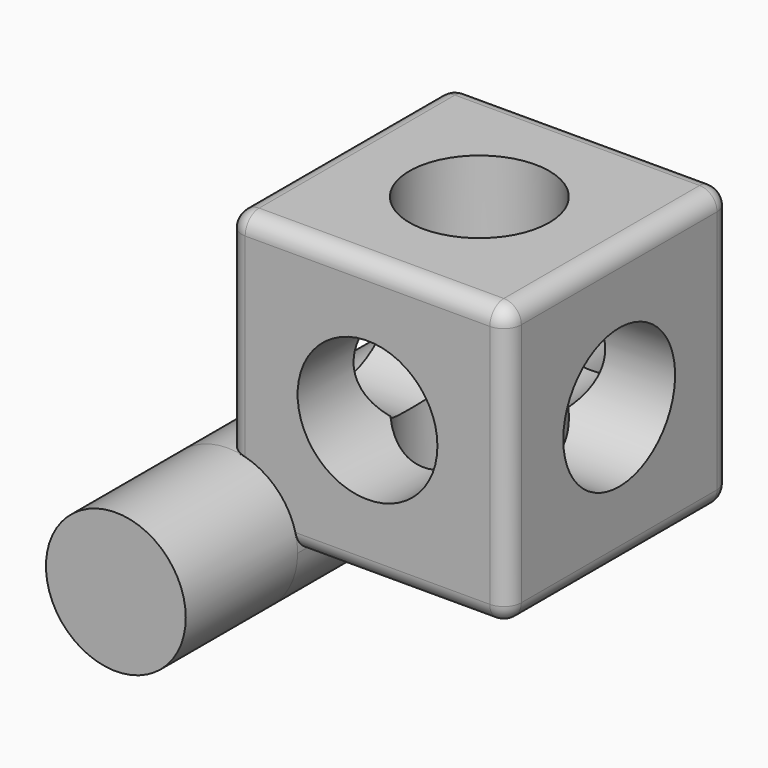
from build123d import *

# Parameters (mm, degrees)
F0_W           = 101.6
F0_H           = 101.6
F1_DEPTH       = 101.6
F2_R           = 25.4
F3_DEPTH       = 101.6
F4_R           = 25.4
F5_DEPTH       = 101.6
F6_R           = 25.4
F7_DEPTH       = 101.6
F8_R           = 6.35
F10_R          = 25.4
F11_DEPTH      = 50.8
F11_DEPTH_BACK = 152.4


with BuildPart() as f1:
    # F0 (on Front) → F1 (new body)
    with BuildSketch(Plane.XZ):
        with Locations((50.8, 50.8)):
            Rectangle(F0_W, F0_H)
    extrude(amount=F1_DEPTH)

    # F2 (on face) → F3 (cut)
    with BuildSketch(Plane.XY.offset(101.6)):
        with Locations((50.8, -50.8)):
            Circle(F2_R)
    extrude(amount=-F3_DEPTH, mode=Mode.SUBTRACT)

    # F4 (on face) → F5 (cut)
    with BuildSketch(Plane(origin=(0, 0, 0), x_dir=(0, -1, 0), z_dir=(-1, 0, 0))):
        with Locations((50.8, 50.8)):
            Circle(F4_R)
    extrude(amount=-F5_DEPTH, mode=Mode.SUBTRACT)

    # F6 (on face) → F7 (cut)
    with BuildSketch(Plane.XZ.offset(101.6)):
        with Locations((50.8, 50.8)):
            Circle(F6_R)
    extrude(amount=-F7_DEPTH, mode=Mode.SUBTRACT)

    # F8
    f8_edges = [f1.edges().sort_by_distance(p)[0] for p in [
        (0, -50.8, 101.6),
        (50.8, 0, 101.6),
        (101.6, -50.8, 101.6),
        (50.8, -101.6, 101.6),
        (0, -101.6, 50.8),
        (101.6, -101.6, 50.8),
        (101.6, 0, 50.8),
        (101.6, -50.8, 0),
        (50.8, -101.6, 0),
        (50.8, 0, 0),
        (0, 0, 50.8),
        (0, -50.8, 0),
    ]]
    fillet(f8_edges, radius=F8_R)

    # F10 (on offset) → F11 (join, two sides)
    with BuildSketch(Plane.XZ.offset(101.6)) as f11_sk:
        Circle(F10_R)
    extrude(amount=F11_DEPTH)
    extrude(f11_sk.sketch, amount=-F11_DEPTH_BACK)


solid = f1.part
